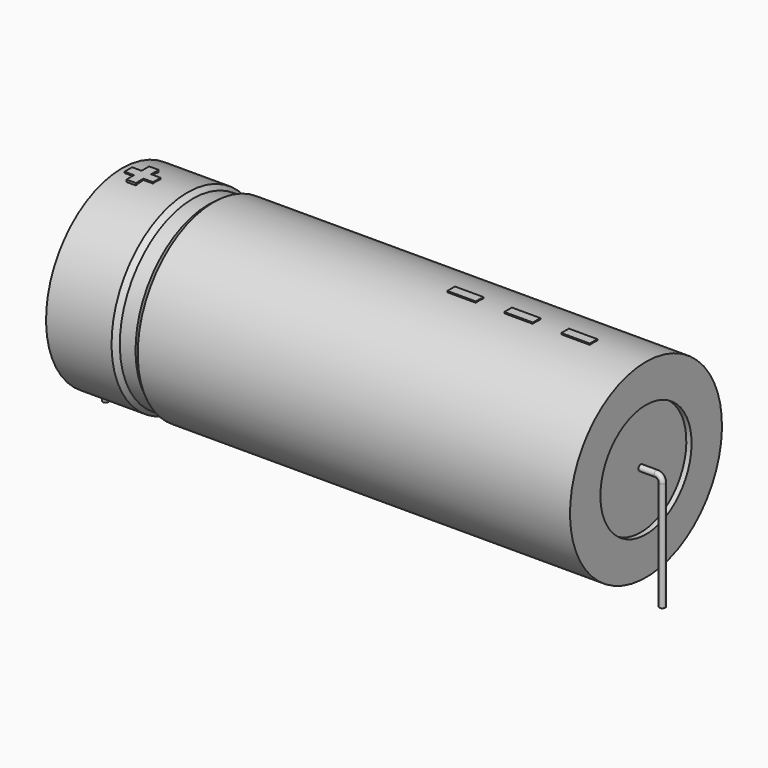
from build123d import *

# Parameters (mm, degrees)
SKETCH_R    = 0.45
SKETCH004_W = 4.35
SKETCH004_H = 1.45
PAD_DEPTH   = 14.645


with BuildPart() as sweep_body:
    # Sweep: sweep along a path in Sketch001
    with BuildLine(Plane.XZ) as sweep_path:
        Line((0, -3), (0, 13.7))
        ThreePointArc((0, 13.7), (0.263606, 14.336399), (0.900007, 14.6))
        Line((0.900007, 14.6), (84.1, 14.6))
        ThreePointArc((84.1, 14.6), (84.736396, 14.336396), (85, 13.7))
        Line((85, 13.7), (85, -3))
    # Sketch → Sweep (sweep)
    with BuildSketch(Plane.XY.offset(-2)):
        Circle(SKETCH_R)
    sweep(path=sweep_path.line)


with BuildPart() as revolution:
    # Sketch002 → Revolution (revolve)
    with BuildSketch(Plane.XZ):
        Polygon((2.5, 29.1), (2.5, 23.3), (82.5, 23.3), (82.5, 29.1), (16.5, 29.1), (15.7, 28.52), (13.3, 28.52), (12.5, 29.1), align=None)
    revolve(axis=Axis((6.97588, 0, 14.6), (1, 0, 0)))


with BuildPart() as revolution001:
    # Sketch003 → Revolution001 (revolve)
    with BuildSketch(Plane.XZ):
        Polygon((3.3, 28.52), (7.3, 28.52), (7.3, 16.05), (77.7, 16.05), (77.7, 28.52), (81.7, 28.52), (81.7, 14.6), (3.3, 14.6), align=None)
    revolve(axis=Axis((6.97588, 0, 14.6), (1, 0, 0)))


with BuildPart() as pad:
    # Sketch004 → Pad (new body)
    with BuildSketch(Plane.XY.offset(14.6)):
        with Locations((72.325, 0)):
            Rectangle(SKETCH004_W, SKETCH004_H)
        with Locations((63.625, 0)):
            Rectangle(SKETCH004_W, SKETCH004_H)
        with Locations((54.925, 0)):
            Rectangle(SKETCH004_W, SKETCH004_H)
        Polygon((4.91, 0.725), (3.46, 0.725), (3.46, -0.725), (4.91, -0.725), (4.91, -2.175), (6.36, -2.175), (6.36, -0.725), (7.81, -0.725), (7.81, 0.725), (6.36, 0.725), (6.36, 2.175), (4.91, 2.175), align=None)
    extrude(amount=PAD_DEPTH)


solid = Compound([sweep_body.part, revolution.part, revolution001.part, pad.part])
